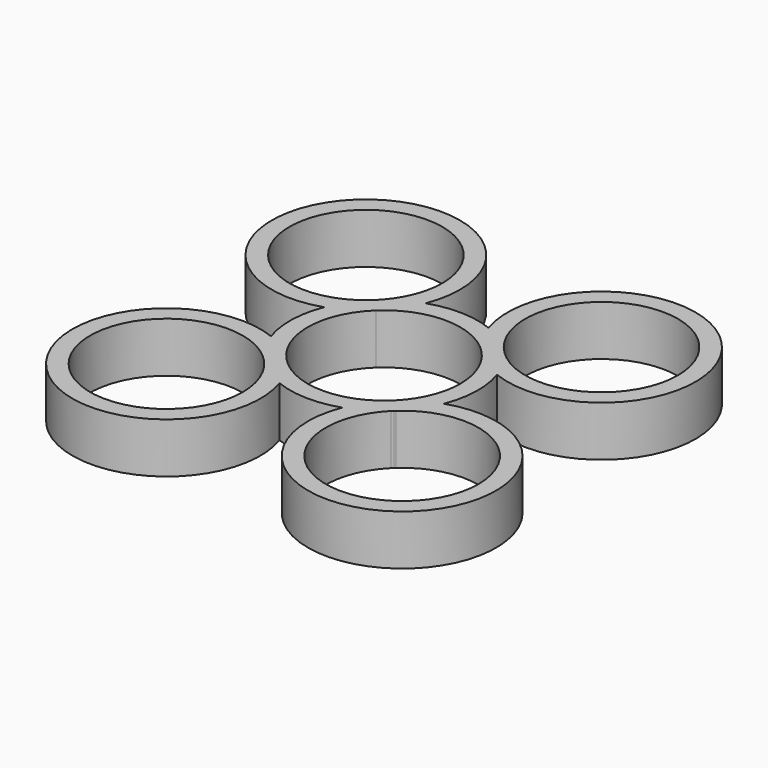
from build123d import *

# Parameters (mm, degrees)
F5_DEPTH = 7.239
F1_R     = 13.5382
F1_R_2   = 10.9982
F6_DEPTH = 7.239
F2_R     = 13.5382
F2_R_2   = 10.9982
F7_DEPTH = 7.239
F3_R     = 13.5382
F3_R_2   = 10.9982
F8_DEPTH = 7.239
F4_R     = 13.5382
F4_R_2   = 10.9982
F9_DEPTH = 7.239


with BuildPart() as f5:
    # F0 (on Top) → F5 (new body)
    with BuildSketch(Plane.XY):
        with BuildLine():
            ThreePointArc((7.98923, 7.561236), (10.219629, 4.069307), (11.000003, 0))
            ThreePointArc((11.000003, 0), (10.103804, -4.348934), (7.561236, -7.98923))
            Line((7.561236, -7.98923), (9.307193, -9.834015))
            ThreePointArc((9.307193, -9.834015), (9.478103, -9.661638), (9.653725, -9.494066))
            ThreePointArc((9.653725, -9.494066), (13.539381, -0.129832), (9.834015, 9.307193))
            Line((9.834015, 9.307193), (7.98923, 7.561236))
        make_face()
        with BuildLine():
            ThreePointArc((-7.561236, 7.98923), (0.302638, 10.995839), (7.98923, 7.561236))
            Line((7.98923, 7.561236), (9.834015, 9.307193))
            ThreePointArc((9.834015, 9.307193), (0.372519, 13.534878), (-9.307193, 9.834015))
            Line((-9.307193, 9.834015), (-7.561236, 7.98923))
        make_face()
        with BuildLine():
            Line((9.307193, -9.834015), (7.561236, -7.98923))
            ThreePointArc((7.561236, -7.98923), (-0.302638, -10.995839), (-7.98923, -7.561236))
            Line((-7.98923, -7.561236), (-9.834015, -9.307193))
            ThreePointArc((-9.834015, -9.307193), (-0.372519, -13.534878), (9.307193, -9.834015))
        make_face()
        with BuildLine():
            ThreePointArc((-7.98923, -7.561236), (-10.995839, 0.302638), (-7.561236, 7.98923))
            Line((-7.561236, 7.98923), (-9.307193, 9.834015))
            ThreePointArc((-9.307193, 9.834015), (-13.534878, 0.372519), (-9.834015, -9.307193))
            Line((-9.834015, -9.307193), (-7.98923, -7.561236))
        make_face()
    extrude(amount=F5_DEPTH)

    # F1 (on Top) → F6 (join)
    with BuildSketch(Plane.XY):
        with Locations((16.860046, -17.814388)):
            Circle(F1_R)
        with Locations((16.860046, -17.814388)):
            Circle(F1_R_2, mode=Mode.SUBTRACT)
    extrude(amount=F6_DEPTH)

    # F2 (on Top) → F7 (join)
    with BuildSketch(Plane.XY):
        with Locations((-17.821935, -16.867189)):
            Circle(F2_R)
        with Locations((-17.821935, -16.867189)):
            Circle(F2_R_2, mode=Mode.SUBTRACT)
    extrude(amount=F7_DEPTH)

    # F3 (on Top) → F8 (join)
    with BuildSketch(Plane.XY):
        with Locations((-16.867189, 17.821935)):
            Circle(F3_R)
        with Locations((-16.867189, 17.821935)):
            Circle(F3_R_2, mode=Mode.SUBTRACT)
    extrude(amount=F8_DEPTH)

    # F4 (on Top) → F9 (join)
    with BuildSketch(Plane.XY):
        with Locations((17.821935, 16.867189)):
            Circle(F4_R)
        with Locations((17.821935, 16.867189)):
            Circle(F4_R_2, mode=Mode.SUBTRACT)
    extrude(amount=F9_DEPTH)


solid = f5.part
